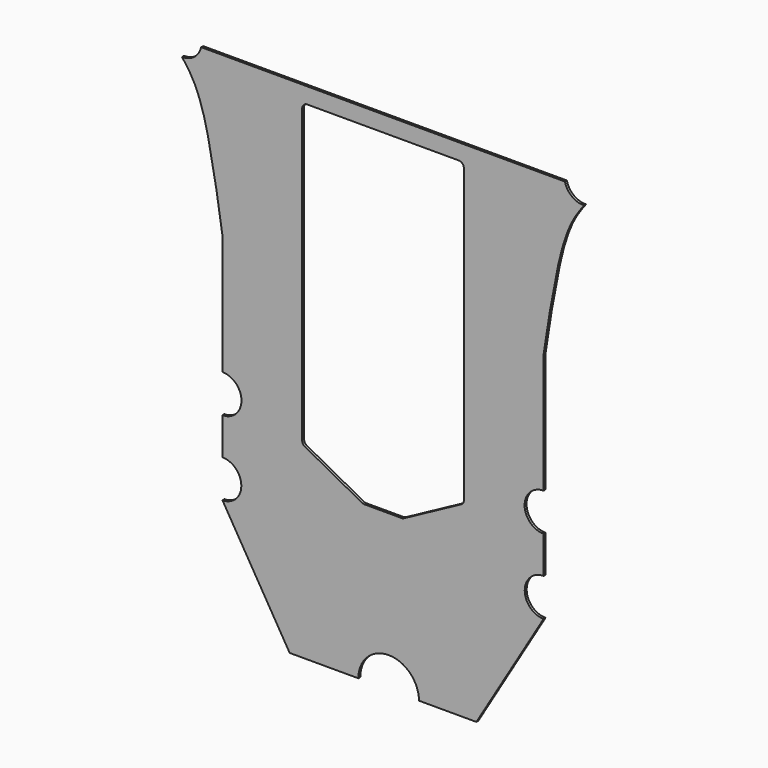
from build123d import *

# Parameters (mm, degrees)
F1_DEPTH = 3.048


with BuildPart() as f1:
    # F0 (on Front) → F1 (new body)
    with BuildSketch(Plane.XZ):
        with BuildLine():
            Line((228.6, 246.2557410921), (0, 246.2557410921))
            Line((0, 246.2557410921), (-228.6, 246.2557410921))
            ThreePointArc((-228.6, 246.2557410921), (-237.3464180268, 232.682029001), (-252.6970505714, 227.6716828346))
            add(Edge.make_bspline(
                [(-201.850220561, 46.3554337621), (-204.1051852003, 61.7372401986), (-208.6036712949, 92.4227955983), (-217.8886704059, 140.0813170844), (-222.9482414814, 165.3770374409), (-235.098632684, 204.1934629253), (-247.1202266132, 220.2315879282), (-252.6970505714, 227.6716828346)],
                knots=[0, 0, 0, 0, 0.2254778023, 0.4498113809, 0.6186366969, 0.8230853564, 1, 1, 1, 1], degree=3))
            Line((-201.850220561, 46.3554337621), (-201.850220561, -104.5182589079))
            ThreePointArc((-201.850220561, -104.5182589079), (-177.974220561, -128.3942589079), (-201.850220561, -152.2702589079))
            Line((-201.850220561, -152.2702589079), (-201.850220561, -198.2442589079))
            Line((-201.850220561, -198.2442589079), (-201.850220561, -198.9251314069))
            ThreePointArc((-201.850220561, -198.9251314069), (-178.1216940411, -222.6604823216), (-201.8638673878, -246.3821824846))
            Line((-201.8638673878, -246.3821824846), (-201.850220561, -246.3908493519))
            Line((-201.850220561, -246.3908493519), (-117.348, -387.8857791424))
            Line((-117.348, -387.8857791424), (-31.0282981902, -387.8857791424))
            ThreePointArc((-31.0282981902, -387.8857791424), (7.0717018098, -349.7857791424), (45.1717018098, -387.8857791424))
            Line((45.1717018098, -387.8857791424), (117.348, -387.8857791424))
            Line((117.348, -387.8857791424), (201.850220561, -246.3908493519))
            Line((201.850220561, -246.3908493519), (201.8986740321, -246.382136938))
            ThreePointArc((201.8986740321, -246.382136938), (178.1217054277, -222.6778856561), (201.850220561, -198.9251314069))
            Line((201.850220561, -198.9251314069), (201.850220561, -198.2442589079))
            Line((201.850220561, -198.2442589079), (201.850220561, -152.2702589079))
            ThreePointArc((201.850220561, -152.2702589079), (177.974220561, -128.3942589079), (201.850220561, -104.5182589079))
            Line((201.850220561, -104.5182589079), (201.850220561, 46.3554337621))
            add(Edge.make_bspline(
                [(201.850220561, 46.3554337621), (204.1051852003, 61.7372401986), (208.6036712949, 92.4227955983), (217.8886704059, 140.0813170844), (222.9482414814, 165.3770374409), (235.098632684, 204.1934629253), (247.1202266132, 220.2315879282), (252.6970505714, 227.6716828346)],
                knots=[0, 0, 0, 0, 0.2254778023, 0.4498113809, 0.6186366969, 0.8230853564, 1, 1, 1, 1], degree=3))
            ThreePointArc((252.6970505714, 227.6716828346), (237.3464180268, 232.682029001), (228.6, 246.2557410921))
        make_face()
        with BuildLine():
            Line((-101.6, -147.7392579563), (-101.6, 219.8743884218))
            ThreePointArc((-101.6, 219.8743884218), (-99.7401280605, 224.3645164824), (-95.25, 226.2243884218))
            Line((-95.25, 226.2243884218), (95.25, 226.2243884218))
            ThreePointArc((95.25, 226.2243884218), (99.7401280605, 224.3645164824), (101.6, 219.8743884218))
            Line((101.6, 219.8743884218), (101.6, -147.7392579563))
            ThreePointArc((101.6, -147.7392579563), (100.7028580828, -150.9933075455), (98.2649326838, -153.3278786191))
            Line((98.2649326838, -153.3278786191), (26.3687280188, -192.1142322409))
            ThreePointArc((26.3687280188, -192.1142322409), (24.9085877313, -192.6823250362), (23.353795335, -192.8756115782))
            Line((23.353795335, -192.8756115782), (-23.353795335, -192.8756115782))
            ThreePointArc((-23.353795335, -192.8756115782), (-24.9085877313, -192.6823250362), (-26.3687280188, -192.1142322409))
            Line((-26.3687280188, -192.1142322409), (-98.2649326838, -153.3278786191))
            ThreePointArc((-98.2649326838, -153.3278786191), (-100.7028580828, -150.9933075455), (-101.6, -147.7392579563))
        make_face(mode=Mode.SUBTRACT)
    extrude(amount=F1_DEPTH)


solid = f1.part
